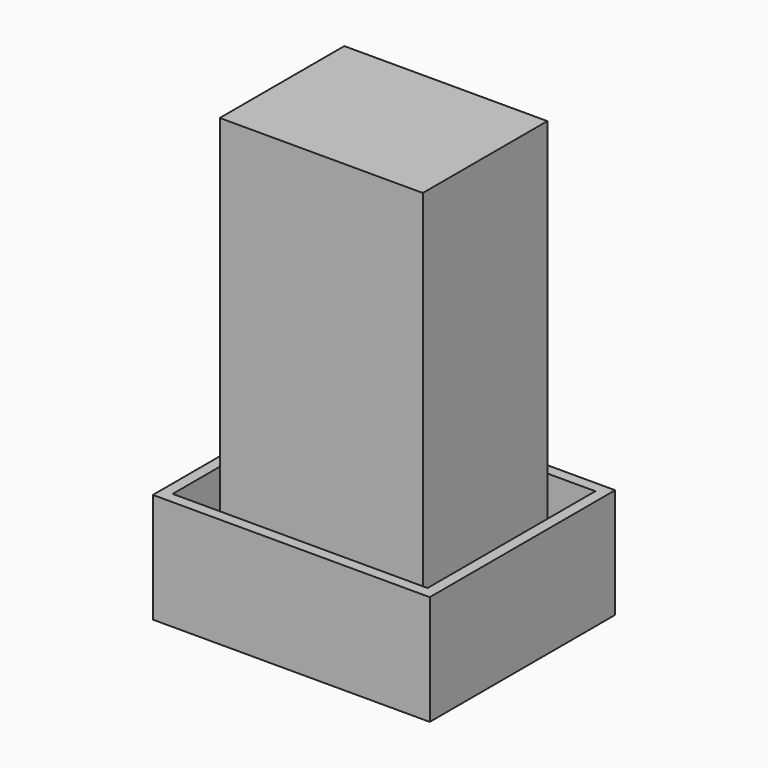
from build123d import *

# Parameters (mm, degrees)
F0_W     = 64.0385448933
F0_H     = 53.5832680762
F1_DEPTH = 25.4
F2_T     = -2.54
F3_W     = 46.9654425979
F3_H     = 35.9974689782
F4_DEPTH = 76.2
F5_W     = 46.9654425979
F5_H     = 35.9974689782
F6_DEPTH = 25.4


with BuildPart() as f1:
    # F0 (on Top) → F1 (new body)
    with BuildSketch(Plane.XY):
        with Locations((14.1581892967, 1.3069082052)):
            Rectangle(F0_W, F0_H)
    extrude(amount=F1_DEPTH)

    # F2
    f2_openings = [f1.faces().sort_by_distance(p)[0] for p in [
        (14.158189, 1.306908, 25.4),
    ]]
    offset(amount=F2_T, openings=f2_openings)

    # F3 (on Top) → F4 (join)
    with BuildSketch(Plane.XY):
        with Locations((14.3955796957, 0.8823070675)):
            Rectangle(F3_W, F3_H)
    extrude(amount=F4_DEPTH)

    # F5 (on face) → F6 (join)
    with BuildSketch(Plane.XY.offset(76.2)):
        with Locations((14.3955796957, 0.8823070675)):
            Rectangle(F5_W, F5_H)
    extrude(amount=F6_DEPTH)


solid = f1.part
